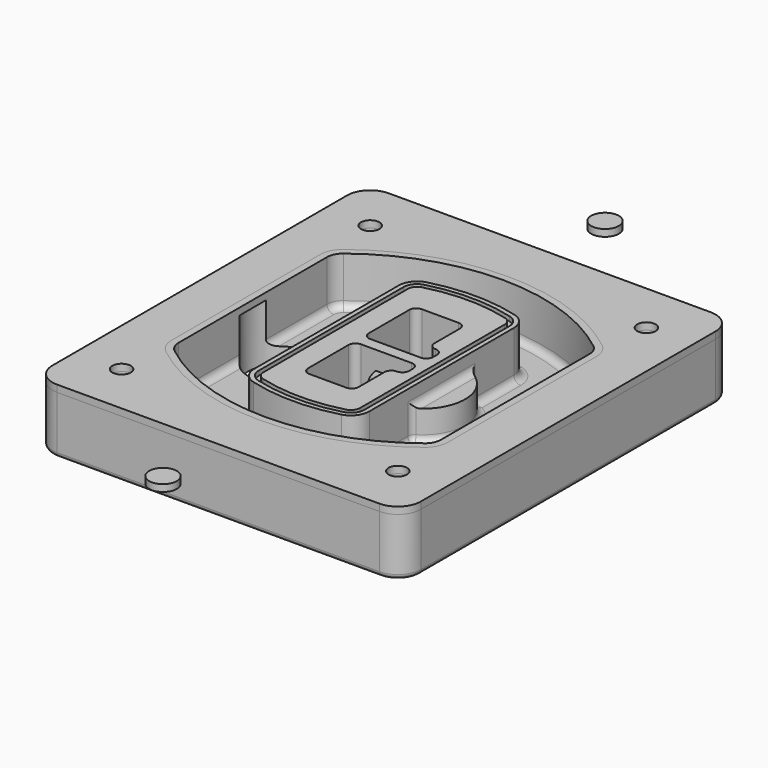
from build123d import *

# Parameters (mm, degrees)
F0_R      = 4
F1_DEPTH  = 25
F2_DEPTH  = 3
F3_DEPTH  = 18
F5_DEPTH  = 21
F6_DEPTH  = 2
F8_DEPTH  = 20
F9_DEPTH  = 16
F10_DEPTH = 25
F7_R      = 6
F7_R_2    = 4
F11_DEPTH = 6
F13_DEPTH = 9
F14_R     = 3
F15_R     = 2
F16_R     = 6
F17_DEPTH = 3
F16_R_2   = 4


with BuildPart() as f1:
    # F0 (on Top) → F1 (new body)
    with BuildSketch(Plane.XY):
        with BuildLine():
            ThreePointArc((-80, -80), (-77.0710678119, -87.0710678119), (-70, -90))
            Line((-70, -90), (70, -90))
            ThreePointArc((70, -90), (77.0710678119, -87.0710678119), (80, -80))
            Line((80, -80), (80, 80))
            ThreePointArc((80, 80), (77.0710678119, 87.0710678119), (70, 90))
            Line((70, 90), (-70, 90))
            ThreePointArc((-70, 90), (-77.0710678119, 87.0710678119), (-80, 80))
            Line((-80, 80), (-80, -80))
        make_face()
        with Locations((-60, -67.5)):
            Circle(F0_R, mode=Mode.SUBTRACT)
        with Locations((60, -67.5)):
            Circle(F0_R, mode=Mode.SUBTRACT)
        with Locations((-60, 67.5)):
            Circle(F0_R, mode=Mode.SUBTRACT)
        with BuildLine():
            ThreePointArc((-64, 40.2934422872), (-62.5820384798, 46.4328484224), (-58.6153846154, 51.3286200352))
            ThreePointArc((-58.6153846154, 51.3286200352), (0, 71.5), (58.6153846154, 51.3286200352))
            ThreePointArc((58.6153846154, 51.3286200352), (62.5820384798, 46.4328484224), (64, 40.2934422872))
            Line((64, 40.2934422872), (64, -40.2934422872))
            ThreePointArc((64, -40.2934422872), (62.5820384798, -46.4328484224), (58.6153846154, -51.3286200352))
            ThreePointArc((58.6153846154, -51.3286200352), (0, -71.5), (-58.6153846154, -51.3286200352))
            ThreePointArc((-58.6153846154, -51.3286200352), (-62.5820384798, -46.4328484224), (-64, -40.2934422872))
            Line((-64, -40.2934422872), (-64, 40.2934422872))
        make_face(mode=Mode.SUBTRACT)
        with Locations((60, 67.5)):
            Circle(F0_R, mode=Mode.SUBTRACT)
        with BuildLine():
            ThreePointArc((58.6153846154, 51.3286200352), (0, 71.5), (-58.6153846154, 51.3286200352))
            ThreePointArc((-58.6153846154, 51.3286200352), (-62.5820384798, 46.4328484224), (-64, 40.2934422872))
            Line((-64, 40.2934422872), (-64, -40.2934422872))
            ThreePointArc((-64, -40.2934422872), (-62.5820384798, -46.4328484224), (-58.6153846154, -51.3286200352))
            ThreePointArc((-58.6153846154, -51.3286200352), (0, -71.5), (58.6153846154, -51.3286200352))
            ThreePointArc((58.6153846154, -51.3286200352), (62.5820384798, -46.4328484224), (64, -40.2934422872))
            Line((64, -40.2934422872), (64, 40.2934422872))
            ThreePointArc((64, 40.2934422872), (62.5820384798, 46.4328484224), (58.6153846154, 51.3286200352))
        make_face()
        with BuildLine():
            Line((-60, -40.2934422872), (-60, 40.2934422872))
            ThreePointArc((-60, 40.2934422872), (-58.9871703427, 44.6787323838), (-56.1538461538, 48.1757121072))
            ThreePointArc((-56.1538461538, 48.1757121072), (0, 67.5), (56.1538461538, 48.1757121072))
            ThreePointArc((56.1538461538, 48.1757121072), (58.9871703427, 44.6787323838), (60, 40.2934422872))
            Line((60, 40.2934422872), (60, -40.2934422872))
            ThreePointArc((60, -40.2934422872), (58.9871703427, -44.6787323838), (56.1538461538, -48.1757121072))
            ThreePointArc((56.1538461538, -48.1757121072), (0, -67.5), (-56.1538461538, -48.1757121072))
            ThreePointArc((-56.1538461538, -48.1757121072), (-58.9871703427, -44.6787323838), (-60, -40.2934422872))
        make_face(mode=Mode.SUBTRACT)
        with BuildLine():
            ThreePointArc((-56.1538461538, 48.1757121072), (-58.9871703427, 44.6787323838), (-60, 40.2934422872))
            Line((-60, 40.2934422872), (-60, -40.2934422872))
            ThreePointArc((-60, -40.2934422872), (-58.9871703427, -44.6787323838), (-56.1538461538, -48.1757121072))
            ThreePointArc((-56.1538461538, -48.1757121072), (0, -67.5), (56.1538461538, -48.1757121072))
            ThreePointArc((56.1538461538, -48.1757121072), (58.9871703427, -44.6787323838), (60, -40.2934422872))
            Line((60, -40.2934422872), (60, 40.2934422872))
            ThreePointArc((60, 40.2934422872), (58.9871703427, 44.6787323838), (56.1538461538, 48.1757121072))
            ThreePointArc((56.1538461538, 48.1757121072), (0, 67.5), (-56.1538461538, 48.1757121072))
        make_face()
        with BuildLine():
            ThreePointArc((54.3076923077, 45.8110311612), (56.2910192399, 43.3631453548), (57, 40.2934422872))
            Line((57, 40.2934422872), (57, -40.2934422872))
            ThreePointArc((57, -40.2934422872), (56.2910192399, -43.3631453548), (54.3076923077, -45.8110311612))
            ThreePointArc((54.3076923077, -45.8110311612), (0, -64.5), (-54.3076923077, -45.8110311612))
            ThreePointArc((-54.3076923077, -45.8110311612), (-56.2910192399, -43.3631453548), (-57, -40.2934422872))
            Line((-57, -40.2934422872), (-57, 40.2934422872))
            ThreePointArc((-57, 40.2934422872), (-56.2910192399, 43.3631453548), (-54.3076923077, 45.8110311612))
            ThreePointArc((-54.3076923077, 45.8110311612), (0, 64.5), (54.3076923077, 45.8110311612))
        make_face(mode=Mode.SUBTRACT)
        with BuildLine():
            Line((57, -40.2934422872), (57, 40.2934422872))
            ThreePointArc((57, 40.2934422872), (56.2910192399, 43.3631453548), (54.3076923077, 45.8110311612))
            ThreePointArc((54.3076923077, 45.8110311612), (0, 64.5), (-54.3076923077, 45.8110311612))
            ThreePointArc((-54.3076923077, 45.8110311612), (-56.2910192399, 43.3631453548), (-57, 40.2934422872))
            Line((-57, 40.2934422872), (-57, -40.2934422872))
            ThreePointArc((-57, -40.2934422872), (-56.2910192399, -43.3631453548), (-54.3076923077, -45.8110311612))
            ThreePointArc((-54.3076923077, -45.8110311612), (0, -64.5), (54.3076923077, -45.8110311612))
            ThreePointArc((54.3076923077, -45.8110311612), (56.2910192399, -43.3631453548), (57, -40.2934422872))
        make_face()
    extrude(amount=-F1_DEPTH)

    # F0 (on Top) → F2 (join)
    with BuildSketch(Plane.XY):
        with BuildLine():
            ThreePointArc((-56.1538461538, 48.1757121072), (-58.9871703427, 44.6787323838), (-60, 40.2934422872))
            Line((-60, 40.2934422872), (-60, -40.2934422872))
            ThreePointArc((-60, -40.2934422872), (-58.9871703427, -44.6787323838), (-56.1538461538, -48.1757121072))
            ThreePointArc((-56.1538461538, -48.1757121072), (0, -67.5), (56.1538461538, -48.1757121072))
            ThreePointArc((56.1538461538, -48.1757121072), (58.9871703427, -44.6787323838), (60, -40.2934422872))
            Line((60, -40.2934422872), (60, 40.2934422872))
            ThreePointArc((60, 40.2934422872), (58.9871703427, 44.6787323838), (56.1538461538, 48.1757121072))
            ThreePointArc((56.1538461538, 48.1757121072), (0, 67.5), (-56.1538461538, 48.1757121072))
        make_face()
        with BuildLine():
            ThreePointArc((54.3076923077, 45.8110311612), (56.2910192399, 43.3631453548), (57, 40.2934422872))
            Line((57, 40.2934422872), (57, -40.2934422872))
            ThreePointArc((57, -40.2934422872), (56.2910192399, -43.3631453548), (54.3076923077, -45.8110311612))
            ThreePointArc((54.3076923077, -45.8110311612), (0, -64.5), (-54.3076923077, -45.8110311612))
            ThreePointArc((-54.3076923077, -45.8110311612), (-56.2910192399, -43.3631453548), (-57, -40.2934422872))
            Line((-57, -40.2934422872), (-57, 40.2934422872))
            ThreePointArc((-57, 40.2934422872), (-56.2910192399, 43.3631453548), (-54.3076923077, 45.8110311612))
            ThreePointArc((-54.3076923077, 45.8110311612), (0, 64.5), (54.3076923077, 45.8110311612))
        make_face(mode=Mode.SUBTRACT)
    extrude(amount=F2_DEPTH)

    # F0 (on Top) → F3 (cut)
    with BuildSketch(Plane.XY):
        with BuildLine():
            Line((57, -40.2934422872), (57, 40.2934422872))
            ThreePointArc((57, 40.2934422872), (56.2910192399, 43.3631453548), (54.3076923077, 45.8110311612))
            ThreePointArc((54.3076923077, 45.8110311612), (0, 64.5), (-54.3076923077, 45.8110311612))
            ThreePointArc((-54.3076923077, 45.8110311612), (-56.2910192399, 43.3631453548), (-57, 40.2934422872))
            Line((-57, 40.2934422872), (-57, -40.2934422872))
            ThreePointArc((-57, -40.2934422872), (-56.2910192399, -43.3631453548), (-54.3076923077, -45.8110311612))
            ThreePointArc((-54.3076923077, -45.8110311612), (0, -64.5), (54.3076923077, -45.8110311612))
            ThreePointArc((54.3076923077, -45.8110311612), (56.2910192399, -43.3631453548), (57, -40.2934422872))
        make_face()
    extrude(amount=-F3_DEPTH, mode=Mode.SUBTRACT)

    # F4 (on face) → F5 (join, through all)
    with BuildSketch(Plane.XY.offset(3)):
        with BuildLine():
            ThreePointArc((-25, -39.2465276821), (-23.3511545998, -44.1109737193), (-19.0842911877, -46.9702398883))
            ThreePointArc((-19.0842911877, -46.9702398883), (0, -49.5), (19.0842911877, -46.9702398883))
            ThreePointArc((19.0842911877, -46.9702398883), (23.3511545998, -44.1109737193), (25, -39.2465276821))
            Line((25, -39.2465276821), (25, 39.2465276821))
            ThreePointArc((25, 39.2465276821), (23.3511545998, 44.1109737193), (19.0842911877, 46.9702398883))
            ThreePointArc((19.0842911877, 46.9702398883), (0, 49.5), (-19.0842911877, 46.9702398883))
            ThreePointArc((-19.0842911877, 46.9702398883), (-23.3511545998, 44.1109737193), (-25, 39.2465276821))
            Line((-25, 39.2465276821), (-25, -39.2465276821))
        make_face()
        with BuildLine():
            ThreePointArc((18.5632183908, 45.0393118368), (21.7633659499, 42.89486221), (23, 39.2465276821))
            Line((23, 39.2465276821), (23, -39.2465276821))
            ThreePointArc((23, -39.2465276821), (21.7633659499, -42.89486221), (18.5632183908, -45.0393118368))
            ThreePointArc((18.5632183908, -45.0393118368), (0, -47.5), (-18.5632183908, -45.0393118368))
            ThreePointArc((-18.5632183908, -45.0393118368), (-21.7633659499, -42.89486221), (-23, -39.2465276821))
            Line((-23, -39.2465276821), (-23, 39.2465276821))
            ThreePointArc((-23, 39.2465276821), (-21.7633659499, 42.89486221), (-18.5632183908, 45.0393118368))
            ThreePointArc((-18.5632183908, 45.0393118368), (0, 47.5), (18.5632183908, 45.0393118368))
        make_face(mode=Mode.SUBTRACT)
        with BuildLine():
            Line((23, -39.2465276821), (23, 39.2465276821))
            ThreePointArc((23, 39.2465276821), (21.7633659499, 42.89486221), (18.5632183908, 45.0393118368))
            ThreePointArc((18.5632183908, 45.0393118368), (0, 47.5), (-18.5632183908, 45.0393118368))
            ThreePointArc((-18.5632183908, 45.0393118368), (-21.7633659499, 42.89486221), (-23, 39.2465276821))
            Line((-23, 39.2465276821), (-23, -39.2465276821))
            ThreePointArc((-23, -39.2465276821), (-21.7633659499, -42.89486221), (-18.5632183908, -45.0393118368))
            ThreePointArc((-18.5632183908, -45.0393118368), (0, -47.5), (18.5632183908, -45.0393118368))
            ThreePointArc((18.5632183908, -45.0393118368), (21.7633659499, -42.89486221), (23, -39.2465276821))
        make_face()
        with BuildLine():
            ThreePointArc((18.0421455939, 43.1083837852), (20.1755772999, 41.6787507007), (21, 39.2465276821))
            Line((21, 39.2465276821), (21, -39.2465276821))
            ThreePointArc((21, -39.2465276821), (20.1755772999, -41.6787507007), (18.0421455939, -43.1083837852))
            ThreePointArc((18.0421455939, -43.1083837852), (0, -45.5), (-18.0421455939, -43.1083837852))
            ThreePointArc((-18.0421455939, -43.1083837852), (-20.1755772999, -41.6787507007), (-21, -39.2465276821))
            Line((-21, -39.2465276821), (-21, 39.2465276821))
            ThreePointArc((-21, 39.2465276821), (-20.1755772999, 41.6787507007), (-18.0421455939, 43.1083837852))
            ThreePointArc((-18.0421455939, 43.1083837852), (0, 45.5), (18.0421455939, 43.1083837852))
        make_face(mode=Mode.SUBTRACT)
        with BuildLine():
            Line((21, -39.2465276821), (21, 39.2465276821))
            ThreePointArc((21, 39.2465276821), (20.1755772999, 41.6787507007), (18.0421455939, 43.1083837852))
            ThreePointArc((18.0421455939, 43.1083837852), (0, 45.5), (-18.0421455939, 43.1083837852))
            ThreePointArc((-18.0421455939, 43.1083837852), (-20.1755772999, 41.6787507007), (-21, 39.2465276821))
            Line((-21, 39.2465276821), (-21, -39.2465276821))
            ThreePointArc((-21, -39.2465276821), (-20.1755772999, -41.6787507007), (-18.0421455939, -43.1083837852))
            ThreePointArc((-18.0421455939, -43.1083837852), (0, -45.5), (18.0421455939, -43.1083837852))
            ThreePointArc((18.0421455939, -43.1083837852), (20.1755772999, -41.6787507007), (21, -39.2465276821))
        make_face()
        with BuildLine():
            Line((-8, -2.5), (14, -2.5))
            ThreePointArc((14, -2.5), (16.1213203436, -3.3786796564), (17, -5.5))
            Line((17, -5.5), (17, -7.5))
            ThreePointArc((17, -7.5), (16.1213203436, -9.6213203436), (14, -10.5))
            ThreePointArc((14, -10.5), (11.8786796564, -11.3786796564), (11, -13.5))
            Line((11, -13.5), (11, -27.5))
            ThreePointArc((11, -27.5), (10.1213203436, -29.6213203436), (8, -30.5))
            Line((8, -30.5), (-8, -30.5))
            ThreePointArc((-8, -30.5), (-10.1213203436, -29.6213203436), (-11, -27.5))
            Line((-11, -27.5), (-11, -5.5))
            ThreePointArc((-11, -5.5), (-10.1213203436, -3.3786796564), (-8, -2.5))
        make_face(mode=Mode.SUBTRACT)
        with BuildLine():
            ThreePointArc((-8, 2.5), (-10.1213203436, 3.3786796564), (-11, 5.5))
            Line((-11, 5.5), (-11, 27.5))
            ThreePointArc((-11, 27.5), (-10.1213203436, 29.6213203436), (-8, 30.5))
            Line((-8, 30.5), (8, 30.5))
            ThreePointArc((8, 30.5), (10.1213203436, 29.6213203436), (11, 27.5))
            Line((11, 27.5), (11, 13.5))
            ThreePointArc((11, 13.5), (11.8786796564, 11.3786796564), (14, 10.5))
            ThreePointArc((14, 10.5), (16.1213203436, 9.6213203436), (17, 7.5))
            Line((17, 7.5), (17, 5.5))
            ThreePointArc((17, 5.5), (16.1213203436, 3.3786796564), (14, 2.5))
            Line((14, 2.5), (-8, 2.5))
        make_face(mode=Mode.SUBTRACT)
    extrude(amount=-F5_DEPTH)

    # F4 (on face) → F6 (cut)
    with BuildSketch(Plane.XY.offset(3)):
        with BuildLine():
            Line((23, -39.2465276821), (23, 39.2465276821))
            ThreePointArc((23, 39.2465276821), (21.7633659499, 42.89486221), (18.5632183908, 45.0393118368))
            ThreePointArc((18.5632183908, 45.0393118368), (0, 47.5), (-18.5632183908, 45.0393118368))
            ThreePointArc((-18.5632183908, 45.0393118368), (-21.7633659499, 42.89486221), (-23, 39.2465276821))
            Line((-23, 39.2465276821), (-23, -39.2465276821))
            ThreePointArc((-23, -39.2465276821), (-21.7633659499, -42.89486221), (-18.5632183908, -45.0393118368))
            ThreePointArc((-18.5632183908, -45.0393118368), (0, -47.5), (18.5632183908, -45.0393118368))
            ThreePointArc((18.5632183908, -45.0393118368), (21.7633659499, -42.89486221), (23, -39.2465276821))
        make_face()
        with BuildLine():
            ThreePointArc((18.0421455939, 43.1083837852), (20.1755772999, 41.6787507007), (21, 39.2465276821))
            Line((21, 39.2465276821), (21, -39.2465276821))
            ThreePointArc((21, -39.2465276821), (20.1755772999, -41.6787507007), (18.0421455939, -43.1083837852))
            ThreePointArc((18.0421455939, -43.1083837852), (0, -45.5), (-18.0421455939, -43.1083837852))
            ThreePointArc((-18.0421455939, -43.1083837852), (-20.1755772999, -41.6787507007), (-21, -39.2465276821))
            Line((-21, -39.2465276821), (-21, 39.2465276821))
            ThreePointArc((-21, 39.2465276821), (-20.1755772999, 41.6787507007), (-18.0421455939, 43.1083837852))
            ThreePointArc((-18.0421455939, 43.1083837852), (0, 45.5), (18.0421455939, 43.1083837852))
        make_face(mode=Mode.SUBTRACT)
    extrude(amount=-F6_DEPTH, mode=Mode.SUBTRACT)

    # F7 (on face) → F8 (join)
    with BuildSketch(Plane(origin=(0, 0, -25), x_dir=(1, 0, 0), z_dir=(0, 0, -1))):
        with BuildLine():
            ThreePointArc((3.28842436, 0), (16.7567035675, 13.4682792075), (30.224982775, 0))
            Line((30.224982775, 0), (35.224982775, 0))
            ThreePointArc((35.224982775, 0), (16.7567035675, 18.4682792075), (-1.71157564, 0))
            Line((-1.71157564, 0), (3.28842436, 0))
        make_face()
        with BuildLine():
            Line((3.28842436, 0), (30.224982775, 0))
            ThreePointArc((30.224982775, 0), (16.7567035675, 13.4682792075), (3.28842436, 0))
        make_face()
        with BuildLine():
            ThreePointArc((3.28842436, 0), (16.7567035675, -13.4682792075), (30.224982775, 0))
            Line((30.224982775, 0), (3.28842436, 0))
        make_face()
        with BuildLine():
            Line((35.224982775, 0), (30.224982775, 0))
            ThreePointArc((30.224982775, 0), (16.7567035675, -13.4682792075), (3.28842436, 0))
            Line((3.28842436, 0), (-1.71157564, 0))
            ThreePointArc((-1.71157564, 0), (16.7567035675, -18.4682792075), (35.224982775, 0))
        make_face()
    extrude(amount=-F8_DEPTH)

    # F7 (on face) → F9 (cut)
    with BuildSketch(Plane(origin=(0, 0, -25), x_dir=(1, 0, 0), z_dir=(0, 0, -1))):
        with BuildLine():
            Line((3.28842436, 0), (30.224982775, 0))
            ThreePointArc((30.224982775, 0), (16.7567035675, 13.4682792075), (3.28842436, 0))
        make_face()
        with BuildLine():
            ThreePointArc((3.28842436, 0), (16.7567035675, -13.4682792075), (30.224982775, 0))
            Line((30.224982775, 0), (3.28842436, 0))
        make_face()
    extrude(amount=-F9_DEPTH, mode=Mode.SUBTRACT)

    # F7 (on face) → F10 (cut)
    with BuildSketch(Plane(origin=(0, 0, -25), x_dir=(1, 0, 0), z_dir=(0, 0, -1))):
        with BuildLine():
            Line((-59.0318229325, 0), (-32.0952645175, 0))
            ThreePointArc((-32.0952645175, 0), (-45.563543725, 13.4682792075), (-59.0318229325, 0))
        make_face()
        with BuildLine():
            ThreePointArc((-59.0318229325, 0), (-45.563543725, -13.4682792075), (-32.0952645175, 0))
            Line((-32.0952645175, 0), (-59.0318229325, 0))
        make_face()
    extrude(amount=-F10_DEPTH, mode=Mode.SUBTRACT)

    # F7 (on face) → F11 (cut)
    with BuildSketch(Plane(origin=(0, 0, -25), x_dir=(1, 0, 0), z_dir=(0, 0, -1))):
        with Locations((60, -67.5)):
            Circle(F7_R)
        with Locations((60, -67.5)):
            Circle(F7_R_2, mode=Mode.SUBTRACT)
        with Locations((60, -67.5)):
            Circle(F7_R)
        with Locations((60, -67.5)):
            Circle(F7_R_2, mode=Mode.SUBTRACT)
        with Locations((-60, -67.5)):
            Circle(F7_R)
        with Locations((-60, -67.5)):
            Circle(F7_R_2, mode=Mode.SUBTRACT)
        with Locations((-60, -67.5)):
            Circle(F7_R)
        with Locations((-60, -67.5)):
            Circle(F7_R_2, mode=Mode.SUBTRACT)
        with Locations((-60, 67.5)):
            Circle(F7_R)
        with Locations((-60, 67.5)):
            Circle(F7_R_2, mode=Mode.SUBTRACT)
        with Locations((-60, 67.5)):
            Circle(F7_R)
        with Locations((-60, 67.5)):
            Circle(F7_R_2, mode=Mode.SUBTRACT)
        with Locations((60, 67.5)):
            Circle(F7_R)
        with Locations((60, 67.5)):
            Circle(F7_R_2, mode=Mode.SUBTRACT)
        with Locations((60, 67.5)):
            Circle(F7_R)
        with Locations((60, 67.5)):
            Circle(F7_R_2, mode=Mode.SUBTRACT)
    extrude(amount=-F11_DEPTH, mode=Mode.SUBTRACT)

    # F12 (on face) → F13 (cut, through all)
    with BuildSketch(Plane(origin=(0, 0, -9), x_dir=(1, 0, 0), z_dir=(0, 0, -1))):
        with BuildLine():
            Line((11, 13.5), (11, 17.5481537753))
            ThreePointArc((11, 17.5481537753), (2.5696536419, 11.8239143813), (-1.5415842455, 2.5))
            Line((-1.5415842455, 2.5), (3.5224848595, 2.5))
            ThreePointArc((3.5224848595, 2.5), (6.1857188154, 8.3455872281), (11.2536447004, 12.2927168648))
            ThreePointArc((11.2536447004, 12.2927168648), (11.0640958889, 12.8831798879), (11, 13.5))
        make_face()
        with BuildLine():
            ThreePointArc((11.2536447004, -12.2927168648), (6.1857188154, -8.3455872281), (3.5224848595, -2.5))
            Line((3.5224848595, -2.5), (-1.5415842455, -2.5))
            ThreePointArc((-1.5415842455, -2.5), (2.5696536419, -11.8239143813), (11, -17.5481537753))
            Line((11, -17.5481537753), (11, -13.5))
            ThreePointArc((11, -13.5), (11.0640958889, -12.8831798879), (11.2536447004, -12.2927168648))
        make_face()
        with BuildLine():
            ThreePointArc((11.2536447004, 12.2927168648), (6.1857188154, 8.3455872281), (3.5224848595, 2.5))
            Line((3.5224848595, 2.5), (14, 2.5))
            ThreePointArc((14, 2.5), (16.1213203436, 3.3786796564), (17, 5.5))
            Line((17, 5.5), (17, 7.5))
            ThreePointArc((17, 7.5), (16.1213203436, 9.6213203436), (14, 10.5))
            ThreePointArc((14, 10.5), (12.3601599782, 10.9878446101), (11.2536447004, 12.2927168648))
        make_face()
        with BuildLine():
            Line((14, -2.5), (3.5224848595, -2.5))
            ThreePointArc((3.5224848595, -2.5), (6.1857188154, -8.3455872281), (11.2536447004, -12.2927168648))
            ThreePointArc((11.2536447004, -12.2927168648), (12.3601599782, -10.9878446101), (14, -10.5))
            ThreePointArc((14, -10.5), (16.1213203436, -9.6213203436), (17, -7.5))
            Line((17, -7.5), (17, -5.5))
            ThreePointArc((17, -5.5), (16.1213203436, -3.3786796564), (14, -2.5))
        make_face()
    extrude(amount=F13_DEPTH, mode=Mode.SUBTRACT)

    # F14
    f14_edges = [f1.edges().sort_by_distance(p)[0] for p in [
        (-57, -23.703476, -18),
        (-57, 23.703476, -18),
        (25, 0, -5),
        (25, 16.526506, -11.5),
        (25, -16.526506, -11.5),
        (25, -27.886517, -18),
        (35.224983, 0, -18),
    ]]
    fillet(f14_edges, radius=F14_R)

    # F15
    f15_edges = [f1.edges().sort_by_distance(p)[0] for p in [
        (0, -90, -25),
    ]]
    fillet(f15_edges, radius=F15_R)


with BuildPart() as f17:
    # F16 (on face) → F17 (new body, through all)
    with BuildSketch(Plane.XY):
        with Locations((0, 120)):
            Circle(F16_R)
    extrude(amount=F17_DEPTH)


with BuildPart() as f17b:
    # F16 (on face) → F17, piece 2 (new body, through all)
    with BuildSketch(Plane.XY):
        with Locations((0, -120)):
            Circle(F16_R)
    extrude(amount=F17_DEPTH)


with BuildPart() as f17c:
    # F16 (on face) → F17, piece 3 (new body, through all)
    with BuildSketch(Plane.XY):
        with BuildLine():
            Line((33, 90), (-33, 90))
            Line((-33, 90), (-70, 90))
            ThreePointArc((-70, 90), (-77.0710678119, 87.0710678119), (-80, 80))
            Line((-80, 80), (-80, -80))
            ThreePointArc((-80, -80), (-77.0710678119, -87.0710678119), (-70, -90))
            Line((-70, -90), (-33, -90))
            Line((-33, -90), (33, -90))
            Line((33, -90), (70, -90))
            ThreePointArc((70, -90), (77.0710678119, -87.0710678119), (80, -80))
            Line((80, -80), (80, 80))
            ThreePointArc((80, 80), (77.0710678119, 87.0710678119), (70, 90))
            Line((70, 90), (33, 90))
        make_face()
        with Locations((-60, -67.5)):
            Circle(F16_R_2, mode=Mode.SUBTRACT)
        with Locations((60, -67.5)):
            Circle(F16_R_2, mode=Mode.SUBTRACT)
        with Locations((-60, 67.5)):
            Circle(F16_R_2, mode=Mode.SUBTRACT)
        with BuildLine():
            ThreePointArc((-60, 40.2934422872), (-58.9871703427, 44.6787323838), (-56.1538461538, 48.1757121072))
            ThreePointArc((-56.1538461538, 48.1757121072), (0, 67.5), (56.1538461538, 48.1757121072))
            ThreePointArc((56.1538461538, 48.1757121072), (58.9871703427, 44.6787323838), (60, 40.2934422872))
            Line((60, 40.2934422872), (60, -40.2934422872))
            ThreePointArc((60, -40.2934422872), (58.9871703427, -44.6787323838), (56.1538461538, -48.1757121072))
            ThreePointArc((56.1538461538, -48.1757121072), (0, -67.5), (-56.1538461538, -48.1757121072))
            ThreePointArc((-56.1538461538, -48.1757121072), (-58.9871703427, -44.6787323838), (-60, -40.2934422872))
            Line((-60, -40.2934422872), (-60, 40.2934422872))
        make_face(mode=Mode.SUBTRACT)
        with Locations((60, 67.5)):
            Circle(F16_R_2, mode=Mode.SUBTRACT)
    extrude(amount=F17_DEPTH)


solid = Compound([f1.part, f17.part, f17b.part, f17c.part])
